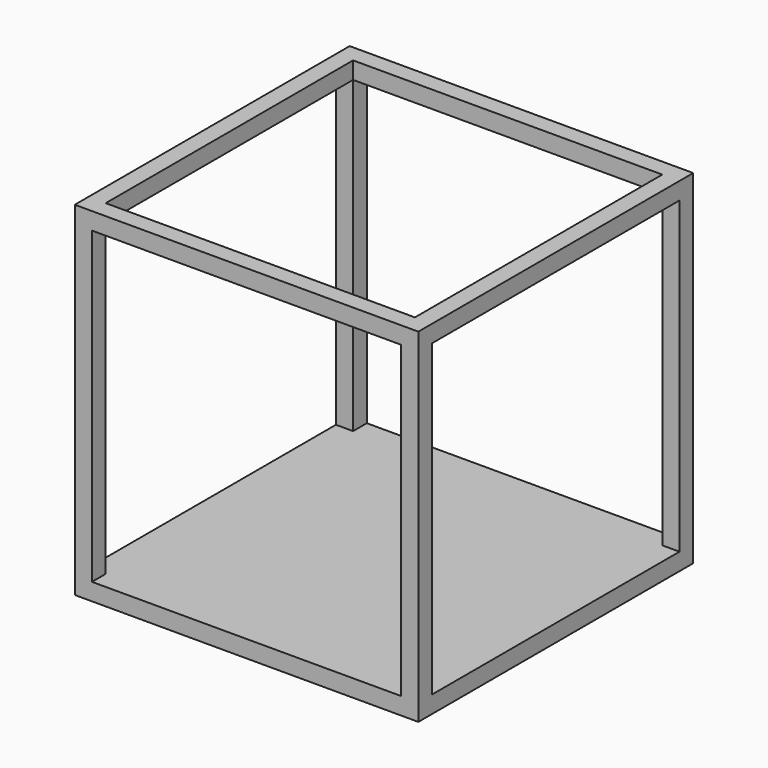
from build123d import *

# Parameters (mm, degrees)
F0_W     = 101.6
F0_H     = 101.6
F0_W_2   = 91.44
F0_H_2   = 91.44
F1_DEPTH = 101.6
F2_W     = 91.44
F2_H     = 91.44
F3_DEPTH = 101.6
F4_W     = 91.44
F4_H     = 91.44
F5_DEPTH = 101.6
F6_W     = 91.44
F6_H     = 91.44
F7_DEPTH = 25.4


with BuildPart() as f1:
    # F0 (on Top) → F1 (new body)
    with BuildSketch(Plane.XY):
        Rectangle(F0_W, F0_H)
        Rectangle(F0_W_2, F0_H_2, mode=Mode.SUBTRACT)
        Rectangle(F0_W_2, F0_H_2)
    extrude(amount=F1_DEPTH)

    # F2 (on face) → F3 (cut)
    with BuildSketch(Plane.YZ.offset(50.8)):
        with Locations((0, 50.8)):
            Rectangle(F2_W, F2_H)
        with Locations((0, 50.8)):
            Rectangle(F2_W, F2_H)
    extrude(amount=-F3_DEPTH, mode=Mode.SUBTRACT)

    # F4 (on face) → F5 (cut)
    with BuildSketch(Plane.XZ.offset(50.8)):
        with Locations((0, 50.8)):
            Rectangle(F4_W, F4_H)
    extrude(amount=-F5_DEPTH, mode=Mode.SUBTRACT)

    # F6 (on face) → F7 (cut)
    with BuildSketch(Plane.XY.offset(101.6)):
        Rectangle(F6_W, F6_H)
    extrude(amount=-F7_DEPTH, mode=Mode.SUBTRACT)


solid = f1.part
